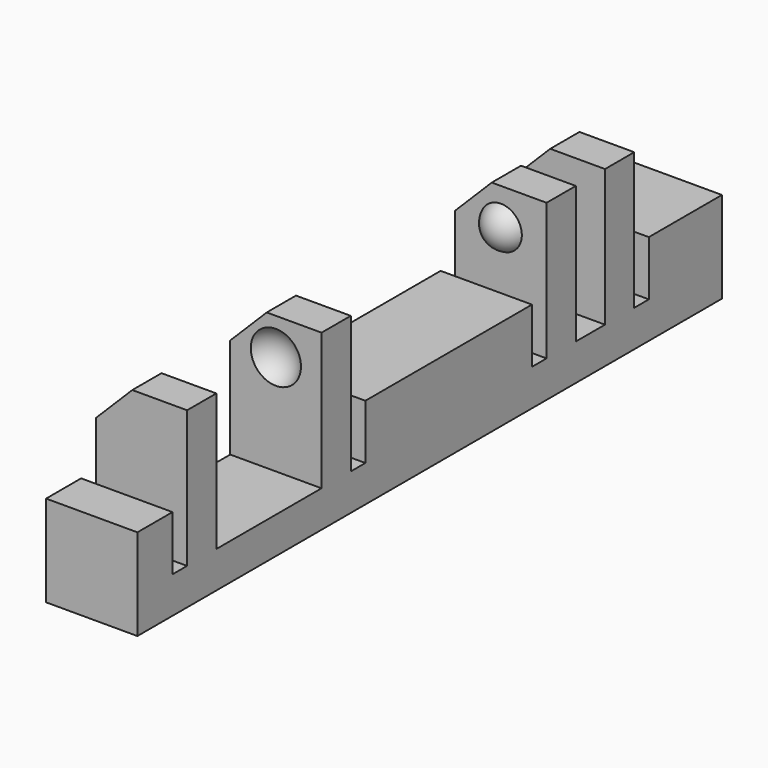
from build123d import *

# Parameters (mm, degrees)
BOX155_W               = 13
BOX155_H               = 40
BOX155_DEPTH           = 10
BOX155_PITCH_ANGLE     = -45
BOX163_W               = 12
BOX163_H               = 44
BOX163_DEPTH           = 10
BOX162_W               = 20
BOX162_H               = 44
BOX162_DEPTH           = 10
BOX158_W               = 4
BOX158_H               = 1
BOX158_DEPTH           = 7
BOX160_W               = 4
BOX160_H               = 1
BOX160_DEPTH           = 7
BOX157_W               = 4
BOX157_H               = 2
BOX157_DEPTH           = 7
BOX159_W               = 4
BOX159_H               = 1
BOX159_DEPTH           = 7
BOX156_W               = 4
BOX156_H               = 1
BOX156_DEPTH           = 7
BOX161_W               = 4
BOX161_H               = 7.2
BOX161_DEPTH           = 7
BOX151_W               = 10
BOX151_H               = 2
BOX151_DEPTH           = 7
BOX152_W               = 10
BOX152_H               = 2
BOX152_DEPTH           = 7
BOX153_W               = 10
BOX153_H               = 2
BOX153_DEPTH           = 7
BOX154_W               = 10
BOX154_H               = 2
BOX154_DEPTH           = 7
BOX150_W               = 5
BOX150_H               = 40
BOX150_DEPTH           = 7
CUT064_PITCH_ANGLE     = 90
CUT064_PLACEMENT_ANGLE = -180


with BuildPart() as chamfer_cube001:
    # Box155 → Box155 (new body)
    with BuildSketch(Plane.XY):
        with Locations((6.5, 20)):
            Rectangle(BOX155_W, BOX155_H)
    extrude(amount=BOX155_DEPTH)


with BuildPart() as chamfer_cube001_1:
    # Box155 pitch: moved
    add(chamfer_cube001.part.rotate(Axis((0, 0, 0), (0, 1, 0)), BOX155_PITCH_ANGLE))


with BuildPart() as chamfer_cube001_2:
    # Box155 placement: moved
    add(chamfer_cube001_1.part.moved(Location((-11.69, 0, -1.19))))


with BuildPart() as re_level_edge_clip_block003:
    # Box163 → Box163 (new body)
    with BuildSketch(Plane(origin=(-21.5, -2, -7), x_dir=(1, 0, 0), z_dir=(0, 0, 1))):
        with Locations((6, 22)):
            Rectangle(BOX163_W, BOX163_H)
    extrude(amount=BOX163_DEPTH)


with BuildPart() as re_level_edge_clip_block002:
    # Box162 → Box162 (new body)
    with BuildSketch(Plane(origin=(-19, -2, 3), x_dir=(1, 0, 0), z_dir=(0, 0, 1))):
        with Locations((10, 22)):
            Rectangle(BOX162_W, BOX162_H)
    extrude(amount=BOX162_DEPTH)


with BuildPart() as cube140:
    # Box158 → Box158 (new body)
    with BuildSketch(Plane(origin=(-6, 12, -2), x_dir=(1, 0, 0), z_dir=(0, 0, 1))):
        with Locations((2, 0.5)):
            Rectangle(BOX158_W, BOX158_H)
    extrude(amount=BOX158_DEPTH)


with BuildPart() as cube142:
    # Box160 → Box160 (new body)
    with BuildSketch(Plane(origin=(-6, 36.6, -2), x_dir=(1, 0, 0), z_dir=(0, 0, 1))):
        with Locations((2, 0.5)):
            Rectangle(BOX160_W, BOX160_H)
    extrude(amount=BOX160_DEPTH)


with BuildPart() as cube139:
    # Box157 → Box157 (new body)
    with BuildSketch(Plane(origin=(-6, 8, -2), x_dir=(1, 0, 0), z_dir=(0, 0, 1))):
        with Locations((2, 1)):
            Rectangle(BOX157_W, BOX157_H)
    extrude(amount=BOX157_DEPTH)


with BuildPart() as cube141:
    # Box159 → Box159 (new body)
    with BuildSketch(Plane(origin=(-6, 24.4, -2), x_dir=(1, 0, 0), z_dir=(0, 0, 1))):
        with Locations((2, 0.5)):
            Rectangle(BOX159_W, BOX159_H)
    extrude(amount=BOX159_DEPTH)


with BuildPart() as cube138:
    # Box156 → Box156 (new body)
    with BuildSketch(Plane(origin=(-6, 5, -2), x_dir=(1, 0, 0), z_dir=(0, 0, 1))):
        with Locations((2, 0.5)):
            Rectangle(BOX156_W, BOX156_H)
    extrude(amount=BOX156_DEPTH)


with BuildPart() as extra_holes_for_clips001:
    # Box161 → Box161 (new body)
    with BuildSketch(Plane(origin=(-6, 27.4, -2), x_dir=(1, 0, 0), z_dir=(0, 0, 1))):
        with Locations((2, 3.6)):
            Rectangle(BOX161_W, BOX161_H)
    extrude(amount=BOX161_DEPTH)

    # Fusion056: union Cube140, Cube142, Cube139, Cube141, Cube138
    add(cube140.part)
    add(cube142.part)
    add(cube139.part)
    add(cube141.part)
    add(cube138.part)


with BuildPart() as sphere054:
    # Sphere054 → Sphere054 (revolve)
    with BuildSketch(Plane(origin=(-7.5, 34, 0.5), x_dir=(1, 0, 0), z_dir=(0, -1, 0))):
        with BuildLine():
            ThreePointArc((0, -1.5), (1.5, 0), (0, 1.5))
            Line((0, 1.5), (0, -1.5))
        make_face()
    revolve(axis=Axis((-7.5, 34, 0.5), (0, 0, 1)))


with BuildPart() as holes001:
    # Sphere053 → Sphere053 (revolve)
    with BuildSketch(Plane(origin=(-7.5, 28, 0.5), x_dir=(1, 0, 0), z_dir=(0, -1, 0))):
        with BuildLine():
            ThreePointArc((0, -1.5), (1.5, 0), (0, 1.5))
            Line((0, 1.5), (0, -1.5))
        make_face()
    revolve(axis=Axis((-7.5, 28, 0.5), (0, 0, 1)))

    # Fusion058: union Sphere054
    add(sphere054.part)


with BuildPart() as cube134:
    # Box151 → Box151 (new body)
    with BuildSketch(Plane(origin=(-15, 6, -2), x_dir=(1, 0, 0), z_dir=(0, 0, 1))):
        with Locations((5, 1)):
            Rectangle(BOX151_W, BOX151_H)
    extrude(amount=BOX151_DEPTH)


with BuildPart() as cube135:
    # Box152 → Box152 (new body)
    with BuildSketch(Plane(origin=(-15, 10, -2), x_dir=(1, 0, 0), z_dir=(0, 0, 1))):
        with Locations((5, 1)):
            Rectangle(BOX152_W, BOX152_H)
    extrude(amount=BOX152_DEPTH)


with BuildPart() as cube136:
    # Box153 → Box153 (new body)
    with BuildSketch(Plane(origin=(-15, 25.4, -2), x_dir=(1, 0, 0), z_dir=(0, 0, 1))):
        with Locations((5, 1)):
            Rectangle(BOX153_W, BOX153_H)
    extrude(amount=BOX153_DEPTH)


with BuildPart() as cube137:
    # Box154 → Box154 (new body)
    with BuildSketch(Plane(origin=(-15, 34.6, -2), x_dir=(1, 0, 0), z_dir=(0, 0, 1))):
        with Locations((5, 1)):
            Rectangle(BOX154_W, BOX154_H)
    extrude(amount=BOX154_DEPTH)


with BuildPart() as fusion059:
    # Box150 → Box150 (new body)
    with BuildSketch(Plane(origin=(-5, 0, -2), x_dir=(1, 0, 0), z_dir=(0, 0, 1))):
        with Locations((2.5, 20)):
            Rectangle(BOX150_W, BOX150_H)
    extrude(amount=BOX150_DEPTH)

    # Fusion059: union Cube134, Cube135, Cube136, Cube137
    add(cube134.part)
    add(cube135.part)
    add(cube136.part)
    add(cube137.part)


with BuildPart() as sphere052:
    # Sphere052 → Sphere052 (revolve)
    with BuildSketch(Plane(origin=(-7.5, 11.5, 0.5), x_dir=(1, 0, 0), z_dir=(0, -1, 0))):
        with BuildLine():
            ThreePointArc((0, -1.25), (1.25, 0), (0, 1.25))
            Line((0, 1.25), (0, -1.25))
        make_face()
    revolve(axis=Axis((-7.5, 11.5, 0.5), (0, 0, 1)))


with BuildPart() as copy_edge_clips:
    # Sphere051 → Sphere051 (revolve)
    with BuildSketch(Plane(origin=(-7.5, 6.5, 0.5), x_dir=(1, 0, 0), z_dir=(0, -1, 0))):
        with BuildLine():
            ThreePointArc((0, -1.25), (1.25, 0), (0, 1.25))
            Line((0, 1.25), (0, -1.25))
        make_face()
    revolve(axis=Axis((-7.5, 6.5, 0.5), (0, 0, 1)))

    # Fusion057: union Sphere052
    add(sphere052.part)

    # Fusion060: union Fusion059
    add(fusion059.part)

    # Cut060: cut Holes001
    add(holes001.part, mode=Mode.SUBTRACT)

    # Cut061: cut Extra Holes for Clips001
    add(extra_holes_for_clips001.part, mode=Mode.SUBTRACT)

    # Cut062: cut Re-level Edge Clip Block002
    add(re_level_edge_clip_block002.part, mode=Mode.SUBTRACT)

    # Cut063: cut Re-level Edge Clip Block003
    add(re_level_edge_clip_block003.part, mode=Mode.SUBTRACT)

    # Cut064: cut Chamfer Cube001
    add(chamfer_cube001_2.part, mode=Mode.SUBTRACT)


with BuildPart() as copy_edge_clips_1:
    # Cut064 pitch: moved
    add(copy_edge_clips.part.rotate(Axis((0, 0, 0), (0, 1, 0)), CUT064_PITCH_ANGLE))


with BuildPart() as copy_edge_clips_2:
    # Cut064 placement: moved
    add(copy_edge_clips_1.part.moved(Location((-7, 40, -7))).rotate(Axis((-7, 40, -7), (0, 0, 1)), CUT064_PLACEMENT_ANGLE))


solid = copy_edge_clips_2.part
